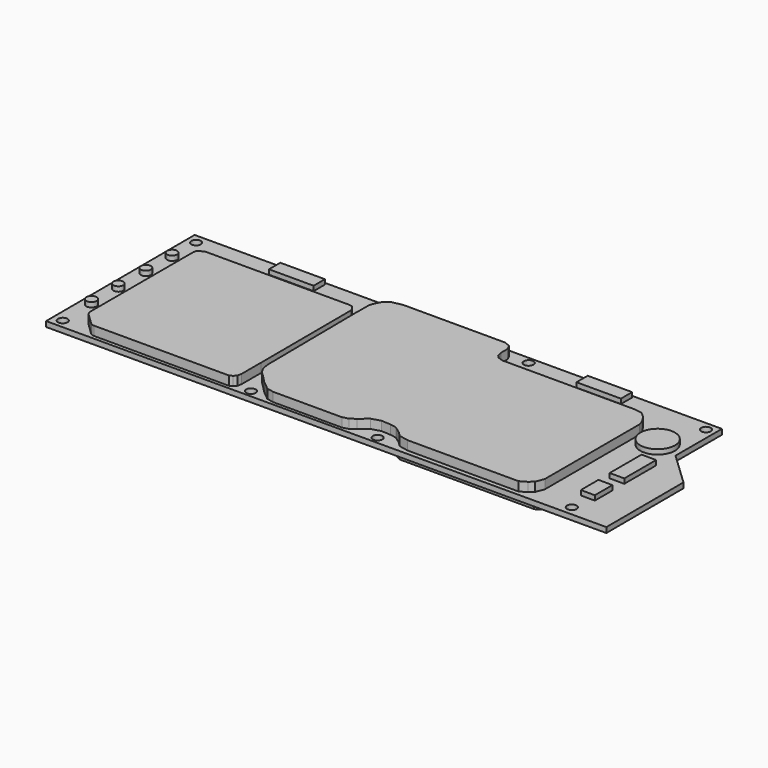
from build123d import *

# Parameters (mm, degrees)
SKETCH_R             = 1.000002
PAD_DEPTH            = 1.1
PAD001_DEPTH         = 3
SKETCH002_R          = 3.621622
SKETCH002_R_2        = 1.0871950633
SKETCH002_R_3        = 1.038663
SKETCH002_W          = 2.932263
SKETCH002_H          = 4.596517
SKETCH002_W_2        = 3.05114
SKETCH002_H_2        = 8.32128
SKETCH002_W_3        = 9.285799
SKETCH002_H_3        = 2.937828
SKETCH002_W_4        = 9.327248
SKETCH002_H_4        = 2.955594
PAD002_DEPTH         = 1
POCKET_DEPTH         = 2
PAD003_DEPTH         = 2
SKETCH005_W          = 3.065838
SKETCH005_H          = 10.665194
SKETCH005_W_2        = 6.121548
SKETCH005_H_2        = 3.191952
PAD004_DEPTH         = 1
BODY_PLACEMENT_ANGLE = 180


with BuildPart() as part:
    # Sketch → Pad (new body)
    with BuildSketch(Plane.XY):
        Polygon((-53.022964, 20.407351), (-52.9787547167, 0.2027583732), (-46.0602256559, -6.375196), (-46.0602256559, -18.4974481912), (63.976062776, -18.2566798895), (63.890903, 20.663168), align=None)
        with Locations((-44.255245, 18.462399)):
            Circle(SKETCH_R, mode=Mode.SUBTRACT)
        with Locations((61.870895, 18.823345)):
            Circle(SKETCH_R, mode=Mode.SUBTRACT)
        with Locations((62.086082, -16.283087)):
            Circle(SKETCH_R, mode=Mode.SUBTRACT)
        with Locations((25.123287, -16.858114)):
            Circle(SKETCH_R, mode=Mode.SUBTRACT)
        with Locations((-6.876536, -16.979681)):
            Circle(SKETCH_R, mode=Mode.SUBTRACT)
        with Locations((-44.183197, -16.667006)):
            Circle(SKETCH_R, mode=Mode.SUBTRACT)
        with Locations((-4.123168, 19.057377)):
            Circle(SKETCH_R, mode=Mode.SUBTRACT)
        with Locations((22.300682, 19.11718)):
            Circle(SKETCH_R, mode=Mode.SUBTRACT)
    extrude(amount=PAD_DEPTH)

    # Sketch001 → Pad001 (join)
    with BuildSketch(Plane.XY):
        Polygon((-36.844624, 16.276525), (-36.177216, 17.983372), (-35.306049, 18.757744), (-33.950901, 19.532116), (-10.728604, 19.532116), (-8.786971, 19.120708), (-7.915218, 18.248957), (-6.449088, 17.179077), (-5.181084, 16.941326), (-3.160203, 16.822451), (-1.297821, 17.377203), (0.401002, 18.814226), (1.471598, 19.5604), (2.704406, 19.884823), (17.074905, 19.884823), (18.534807, 19.564352), (19.313425, 18.915506), (20.319134, 18.104448), (21.519503, 16.871641), (22.849751, 15.56896), (23.460667, 14.53306), (23.726282, 13.072177), (25.027796, 13.072177), (25.027796, 18.169937), (25.208204, 19.013437), (25.662395, 19.564959), (26.246357, 19.889381), (54.529621, 19.889381), (54.947342, 19.840021), (55.269585, 19.637127), (57.763969, 17.23822), (58.038471, 16.641476), (58.06234, 16.247625), (58.06234, -10.412685), (57.961418, -11.086915), (57.531475, -11.428915), (56.710674, -11.888173), (26.824308, -11.888173), (25.868092, -11.772225), (25.310301, -11.081625), (25.097807, -10.364464), (23.955662, -10.444148), (23.955662, -13.832493), (23.614752, -14.78871), (23.056957, -15.851171), (21.835127, -16.913633), (19.616846, -17.367628), (16.833258, -17.367628), (4.714081, -17.367628), (-1.58584, -17.367628), (-2.892593, -16.866425), (-3.376577, -15.850059), (-3.376577, -14.122653), (-3.592077, -13.11694), (-4.143597, -12.532976), (-5.149311, -12.143668), (-32.677246, -12.143668), (-34.558903, -11.868008), (-35.661945, -10.894736), (-36.505447, -9.564599), (-36.844624, -8.440372), align=None)
    extrude(amount=PAD001_DEPTH)

    # Sketch002 (on Face5 of Pad001) → Pad002 (join)
    with BuildSketch(Plane.XY.offset(1.1)):
        with Locations((-41.301872, -7.651712)):
            Circle(SKETCH002_R)
        with Locations((61.760948, 11.435151)):
            Circle(SKETCH002_R_2)
        with Locations((61.793392, 4.39516)):
            Circle(SKETCH002_R_3)
        with Locations((61.727276, -2.725665)):
            Circle(SKETCH002_R_3)
        with Locations((61.740788, -9.574547)):
            Circle(SKETCH002_R_3)
        with Locations((-44.2495595, 11.9823365)):
            Rectangle(SKETCH002_W, SKETCH002_H)
        with Locations((-44.229748, 2.4723)):
            Rectangle(SKETCH002_W_2, SKETCH002_H_2)
        with Locations((-23.0629585, -16.513226)):
            Rectangle(SKETCH002_W_3, SKETCH002_H_3)
        with Locations((41.056557, -16.344444)):
            Rectangle(SKETCH002_W_4, SKETCH002_H_4)
    extrude(amount=PAD002_DEPTH)

    # Sketch003 (on Face107 of Pad002) → Pocket (cut)
    with BuildSketch(Plane.XY.offset(3)):
        Polygon((23.735168, 13.191908), (23.982185, -10.528876), (25.110214, -10.528876), (25.018686, 13.238607), align=None)
    extrude(amount=-POCKET_DEPTH, mode=Mode.SUBTRACT)

    # Sketch004 (on Face4 of Pocket) → Pad003 (join)
    with BuildSketch(Plane(origin=(0, 0, 0), x_dir=(1, 0, 0), z_dir=(0, 0, -1))):
        Polygon((-38.371834, 13.814776), (-39.017166, 13.360193), (-39.410694, 12.813627), (-39.520008, 12.4201), (-39.520008, -14.684528), (-38.980286, -15.923907), (-37.055988, -17.652515), (-36.142761, -18.174358), (-8.000727, -18.174358), (-7.087676, -17.71302), (-6.318431, -17.014458), (-6.318431, 12.349279), (-6.707822, 12.920823), (-7.176782, 13.433747), (-7.733671, 13.814776), align=None)
        Polygon((-5.504074, 12.586247), (-5.05245, 13.289701), (-4.55126, 13.737192), (30.83049, 13.737192), (31.573822, 13.584511), (32.339016, 12.666278), (32.701897, -14.178478), (32.288383, -15.067693), (31.512323, -15.647282), (-2.137218, -15.647282), (-5.504074, -13.009031), align=None)
        Polygon((33.824478, -11.830342), (34.277905, -12.79659), (35.083393, -13.136684), (56.290169, -13.136684), (57.16468, -12.83504), (57.492619, -12.026119), (57.492619, 11.701175), (56.447365, 12.796005), (35.343506, 12.796005), (34.37656, 12.325871), (33.824478, 11.411518), align=None)
    extrude(amount=PAD003_DEPTH)

    # Sketch005 (on Face4 of Pad003) → Pad004 (join)
    with BuildSketch(Plane(origin=(0, 0, 0), x_dir=(1, 0, 0), z_dir=(0, 0, -1))):
        with Locations((61.451113, -9.044624)):
            Rectangle(SKETCH005_W, SKETCH005_H)
        with Locations((52.262358, -16.842775)):
            Rectangle(SKETCH005_W_2, SKETCH005_H_2)
    extrude(amount=PAD004_DEPTH)


with BuildPart() as part_1:
    # Body placement: moved
    add(part.part.rotate(Axis((0, 0, 0), (0, 0, 1)), BODY_PLACEMENT_ANGLE))


solid = part_1.part
